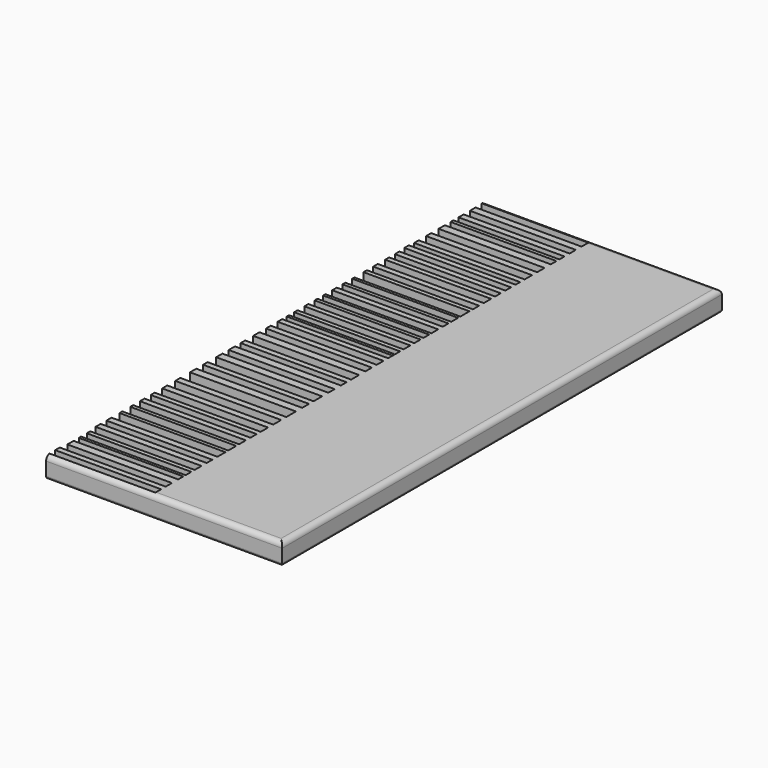
from build123d import *

# Parameters (mm, degrees)
F1_DEPTH = 5.08
F0_W     = 26.033623144
F0_H     = 1.041341573
F0_W_2   = 25.8600655943
F0_H_2   = 1.7355754972
F0_H_3   = 1.0413378477
F0_H_4   = 1.5620179474
F0_H_5   = 1.3884603977
F0_H_6   = 0.8677877486
F0_W_3   = 25.5129504949
F0_H_7   = 1.9091293216
F0_H_8   = 1.9091330469
F0_H_9   = 0.6942301989
F0_H_10  = 1.5620142221
F0_H_11  = 1.3884566724
F0_H_12  = 0.8677914739
F0_H_13  = 1.214902848
F0_H_14  = 1.3884585351
F0_H_15  = 1.0413434356
F0_H_16  = 1.2149065733
F0_H_17  = 0.8677858859
F0_H_18  = 1.5620198101
F0_W_4   = 1.7355754972
F0_H_19  = 1.9091311842
F0_H_20  = 0.6942292675
F0_H_21  = 1.2149023823
F0_H_22  = 1.0413455311
F0_H_23  = 1.3884599321
F0_H_24  = 1.9091316499
F0_H_25  = 1.4752384741
F2_DEPTH = 5.08
F0_W_5   = 25.6865080446
F0_H_26  = 0.6942305481
F3_R     = 1.2264204897
F4_R     = 0.6132102448


with BuildPart() as f1:
    # F0 (on Top) → F1 (new body)
    with BuildSketch(Plane.XY):
        Polygon((44.7778329253, 62.133576721), (13.016811572, 62.133576721), (13.016811572, 61.092235148), (13.016811572, 59.0095482767), (13.016811572, 57.2739727795), (13.016811572, 55.3648397326), (13.016811572, 53.8028217852), (13.016811572, 52.2408038378), (13.016811572, 51.3730160892), (13.016811572, 49.6374443173), (13.016811572, 47.7283112705), (13.016811572, 45.4720593989), (13.016811572, 43.9100451767), (13.016811572, 41.6537933052), (13.016811572, 40.2653366327), (13.016811572, 38.876876235), (13.016811572, 37.4884158373), (13.016811572, 35.7528403401), (13.016811572, 34.3643836677), (13.016811572, 32.6288081706), (13.016811572, 31.4139053226), (13.016811572, 29.1576571763), (13.016811572, 27.7691986412), (13.016811572, 25.8600655943), (13.016811572, 24.8187221587), (13.016811572, 22.0418013632), (13.016811572, 21.3475711644), (13.016811572, 19.2648805678), (13.016811572, 18.3970946819), (13.016811572, 16.6615191847), (14.7523870692, 16.6615191847), (14.7523870692, 15.273058787), (13.016811572, 15.273058787), (13.016811572, 13.1903681904), (13.016811572, 12.4961389229), (13.016811572, 10.760564357), (13.016811572, 9.8927766085), (13.016811572, 7.9836444929), (13.016811572, 6.7687421106), (13.016811572, 4.6860519797), (13.016811572, 3.6447064485), (13.016811572, 0), (13.016811572, -1.3884599321), (13.016811572, -3.4711498301), (13.016811572, -4.9463883042), (13.016811572, -6.9422996603), (13.016811572, -8.8514313102), (13.016811572, -11.2812360749), (13.016811572, -12.6696964726), (13.016811572, -14.4052710384), (13.016811572, -16.3144040853), (13.016811572, -18.2235352695), (13.016811572, -20.1326683164), (13.016811572, -22.7360296994), (13.016811572, -24.1244900972), (13.016811572, -26.2071806937), (13.016811572, -28.116311878), (13.016811572, -31.0667883605), (13.016811572, -32.6288081706), (13.016811572, -35.0586138666), (13.016811572, -36.6206280887), (13.016811572, -38.876876235), (13.016811572, -40.0917828083), (13.016811572, -42.0009121299), (13.016811572, -43.3893688023), (13.016811572, -45.4720593989), (13.016811572, -46.3398508728), (13.016811572, -48.7696528435), (13.016811572, -49.6374443173), (13.016811572, -52.0672462881), (13.016811572, -53.6292642355), (13.016811572, -55.3648397326), (13.016811572, -56.9268576801), (13.016811572, -59.0095482767), (13.016811572, -60.0508898497), (13.016811572, -61.7864653468), (13.016811572, -62.4806955457), (13.016811572, -64.0427097678), (13.016811572, -65.9518390894), (13.016811572, -67.8609758615), (13.016811572, -69.2494362593), (13.016811572, -70.9850154817), (13.016811572, -72.0263533294), (44.7778329253, -72.0263533294), align=None)
    extrude(amount=F1_DEPTH)

    # F0 (on Top) → F2 (join)
    with BuildSketch(Plane.XY):
        Polygon((44.7778329253, 62.133576721), (13.016811572, 62.133576721), (13.016811572, 61.092235148), (13.016811572, 59.0095482767), (13.016811572, 57.2739727795), (13.016811572, 55.3648397326), (13.016811572, 53.8028217852), (13.016811572, 52.2408038378), (13.016811572, 51.3730160892), (13.016811572, 49.6374443173), (13.016811572, 47.7283112705), (13.016811572, 45.4720593989), (13.016811572, 43.9100451767), (13.016811572, 41.6537933052), (13.016811572, 40.2653366327), (13.016811572, 38.876876235), (13.016811572, 37.4884158373), (13.016811572, 35.7528403401), (13.016811572, 34.3643836677), (13.016811572, 32.6288081706), (13.016811572, 31.4139053226), (13.016811572, 29.1576571763), (13.016811572, 27.7691986412), (13.016811572, 25.8600655943), (13.016811572, 24.8187221587), (13.016811572, 22.0418013632), (13.016811572, 21.3475711644), (13.016811572, 19.2648805678), (13.016811572, 18.3970946819), (13.016811572, 16.6615191847), (14.7523870692, 16.6615191847), (14.7523870692, 15.273058787), (13.016811572, 15.273058787), (13.016811572, 13.1903681904), (13.016811572, 12.4961389229), (13.016811572, 10.760564357), (13.016811572, 9.8927766085), (13.016811572, 7.9836444929), (13.016811572, 6.7687421106), (13.016811572, 4.6860519797), (13.016811572, 3.6447064485), (13.016811572, 0), (13.016811572, -1.3884599321), (13.016811572, -3.4711498301), (13.016811572, -4.9463883042), (13.016811572, -6.9422996603), (13.016811572, -8.8514313102), (13.016811572, -11.2812360749), (13.016811572, -12.6696964726), (13.016811572, -14.4052710384), (13.016811572, -16.3144040853), (13.016811572, -18.2235352695), (13.016811572, -20.1326683164), (13.016811572, -22.7360296994), (13.016811572, -24.1244900972), (13.016811572, -26.2071806937), (13.016811572, -28.116311878), (13.016811572, -31.0667883605), (13.016811572, -32.6288081706), (13.016811572, -35.0586138666), (13.016811572, -36.6206280887), (13.016811572, -38.876876235), (13.016811572, -40.0917828083), (13.016811572, -42.0009121299), (13.016811572, -43.3893688023), (13.016811572, -45.4720593989), (13.016811572, -46.3398508728), (13.016811572, -48.7696528435), (13.016811572, -49.6374443173), (13.016811572, -52.0672462881), (13.016811572, -53.6292642355), (13.016811572, -55.3648397326), (13.016811572, -56.9268576801), (13.016811572, -59.0095482767), (13.016811572, -60.0508898497), (13.016811572, -61.7864653468), (13.016811572, -62.4806955457), (13.016811572, -64.0427097678), (13.016811572, -65.9518390894), (13.016811572, -67.8609758615), (13.016811572, -69.2494362593), (13.016811572, -70.9850154817), (13.016811572, -72.0263533294), (44.7778329253, -72.0263533294), align=None)
        with Locations((0, 61.6129059345)):
            Rectangle(F0_W, F0_H)
        with Locations((0.0867787749, 58.1417605281)):
            Rectangle(F0_W_2, F0_H_2)
        with Locations((0.0867787749, -71.5056844056)):
            Rectangle(F0_W_2, F0_H_3)
        with Locations((0.0867787749, 54.5838307589)):
            Rectangle(F0_W_2, F0_H_4)
        with Locations((0.0867787749, -68.5552060604)):
            Rectangle(F0_W_2, F0_H_5)
        with Locations((0.0867787749, 51.8069099635)):
            Rectangle(F0_W_2, F0_H_6)
        with Locations((0.2603363246, -64.9972744286)):
            Rectangle(F0_W_3, F0_H_7)
        with Locations((0.0867787749, 48.6828777939)):
            Rectangle(F0_W_2, F0_H_8)
        with Locations((0.2603363246, -62.1335804462)):
            Rectangle(F0_W_3, F0_H_9)
        with Locations((0.0867787749, 44.6910522878)):
            Rectangle(F0_W_2, F0_H_10)
        with Locations((0.2603363246, -59.5302190632)):
            Rectangle(F0_W_3, F0_H)
        with Locations((0.0867787749, 40.9595649689)):
            Rectangle(F0_W_2, F0_H_11)
        with Locations((0.0867787749, -56.1458487064)):
            Rectangle(F0_W_2, F0_H_4)
        with Locations((0, 38.1826460361)):
            Rectangle(F0_W, F0_H_5)
        with Locations((0.0867787749, -52.8482552618)):
            Rectangle(F0_W_2, F0_H_4)
        with Locations((0.0867787749, 35.0586120039)):
            Rectangle(F0_W_2, F0_H_11)
        with Locations((0.0867787749, -49.2035485804)):
            Rectangle(F0_W_2, F0_H_12)
        with Locations((0.0867787749, 32.0213567466)):
            Rectangle(F0_W_2, F0_H_13)
        with Locations((0.0867787749, -45.9059551358)):
            Rectangle(F0_W_2, F0_H_12)
        with Locations((0.0867787749, 28.4634279087)):
            Rectangle(F0_W_2, F0_H_14)
        with Locations((0.0867787749, -42.6951404661)):
            Rectangle(F0_W_2, F0_H_11)
        with Locations((0.0867787749, 25.3393938765)):
            Rectangle(F0_W_2, F0_H_15)
        with Locations((0.0867787749, -39.4843295217)):
            Rectangle(F0_W_2, F0_H_16)
        with Locations((0.0867787749, 21.6946862638)):
            Rectangle(F0_W_2, F0_H_9)
        with Locations((0.0867787749, -35.8396209776)):
            Rectangle(F0_W_2, F0_H_10)
        with Locations((0.0867787749, 18.8309876248)):
            Rectangle(F0_W_2, F0_H_17)
        with Locations((0.0867787749, -31.8477982655)):
            Rectangle(F0_W_2, F0_H_18)
        with Locations((13.8845993206, 15.9672889858)):
            Rectangle(F0_W_4, F0_H_5)
        with Locations((0.0867787749, 15.9672889858)):
            Rectangle(F0_W_2, F0_H_5)
        with Locations((0.0867787749, -27.1617462859)):
            Rectangle(F0_W_2, F0_H_19)
        with Locations((0.0867787749, 12.8432535566)):
            Rectangle(F0_W_2, F0_H_20)
        with Locations((0.0867787749, -23.4302598983)):
            Rectangle(F0_W_2, F0_H_5)
        with Locations((0.0867787749, 10.3266704828)):
            Rectangle(F0_W_2, F0_H_6)
        with Locations((0.0867787749, -19.1781017929)):
            Rectangle(F0_W_2, F0_H_8)
        with Locations((0.0867787749, 7.3761933018)):
            Rectangle(F0_W_2, F0_H_21)
        with Locations((0.0867787749, -15.3598375618)):
            Rectangle(F0_W_2, F0_H_8)
        with Locations((0.0867787749, 4.1653792141)):
            Rectangle(F0_W_2, F0_H_22)
        with Locations((0.0867787749, -11.9754662737)):
            Rectangle(F0_W_2, F0_H_5)
        with Locations((0.0867787749, -0.694229966)):
            Rectangle(F0_W_2, F0_H_23)
        with Locations((0.0867787749, -7.8968654852)):
            Rectangle(F0_W_2, F0_H_24)
        with Locations((0.0867787749, -4.2087690672)):
            Rectangle(F0_W_2, F0_H_25)
    extrude(amount=F2_DEPTH)

    # F3
    f3_edges = [f1.edges().sort_by_distance(p)[0] for p in [
        (15.880511, 62.133577, 5.08),
        (44.777833, -4.946388, 5.08),
        (15.967289, -72.026353, 5.08),
    ]]
    fillet(f3_edges, radius=F3_R)

    # F4
    f4_edges = [f1.edges().sort_by_distance(p)[0] for p in [
        (15.967289, -72.026353, 0),
        (44.777833, -4.946388, 0),
        (15.880511, 62.133577, 0),
    ]]
    fillet(f4_edges, radius=F4_R)


with BuildPart() as f2:
    # F0 (on Top) → F2, piece 2 (new body)
    with BuildSketch(Plane.XY):
        with Locations((0, 1.735574624)):
            Rectangle(F0_W_5, F0_H_26)
    extrude(amount=F2_DEPTH)


solid = Compound([f1.part, f2.part])
